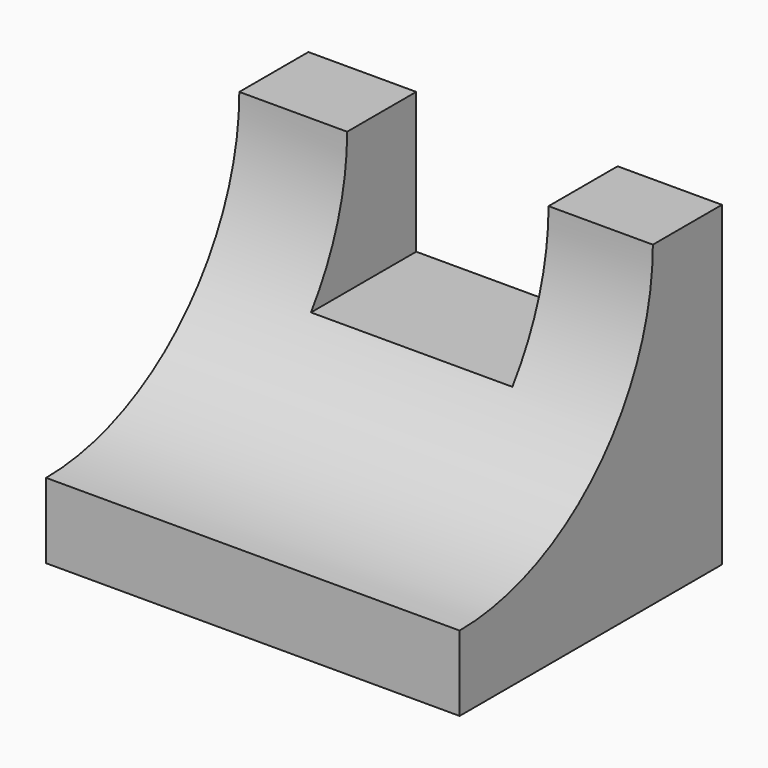
from build123d import *

# Parameters (mm, degrees)
F0_W     = 116.9285327196
F0_H     = 89.5570702851
F1_DEPTH = 92.71
F3_DEPTH = 116.9295327196
F4_W     = 56.9494720548
F4_H     = 39.7882887628
F5_DEPTH = 92.711


with BuildPart() as f1:
    # F0 (on Front) → F1 (new body)
    with BuildSketch(Plane.XZ):
        with Locations((15.2437537909, -1.4810357243)):
            Rectangle(F0_W, F0_H)
    extrude(amount=F1_DEPTH)

    # F2 (on face) → F3 (cut, through all)
    with BuildSketch(Plane(origin=(-43.220512569, 0, 0), x_dir=(0, -1, 0), z_dir=(-1, 0, 0))):
        with BuildLine():
            ThreePointArc((92.71, -25.0020706653), (141.0050891582, -4.9975897399), (161.0095700836, 43.2974994183))
            ThreePointArc((161.0095700836, 43.2974994183), (92.71, 111.5970695018), (24.4104299164, 43.2974994183))
            Line((24.4104299164, 43.2974994183), (92.71, 43.2974994183))
            Line((92.71, 43.2974994183), (92.71, -25.0020706653))
        make_face()
        with BuildLine():
            Line((92.71, 43.2974994183), (24.4104299164, 43.2974994183))
            ThreePointArc((24.4104299164, 43.2974994183), (44.4149108418, -4.9975897399), (92.71, -25.0020706653))
            Line((92.71, -25.0020706653), (92.71, 43.2974994183))
        make_face()
    extrude(amount=-F3_DEPTH, mode=Mode.SUBTRACT)

    # F4 (on face) → F5 (cut, through all)
    with BuildSketch(Plane(origin=(0, 0, 0), x_dir=(-1, 0, 0), z_dir=(0, 1, 0))):
        with Locations((-15.7413156703, 23.4033550369)):
            Rectangle(F4_W, F4_H)
    extrude(amount=-F5_DEPTH, mode=Mode.SUBTRACT)


solid = f1.part
